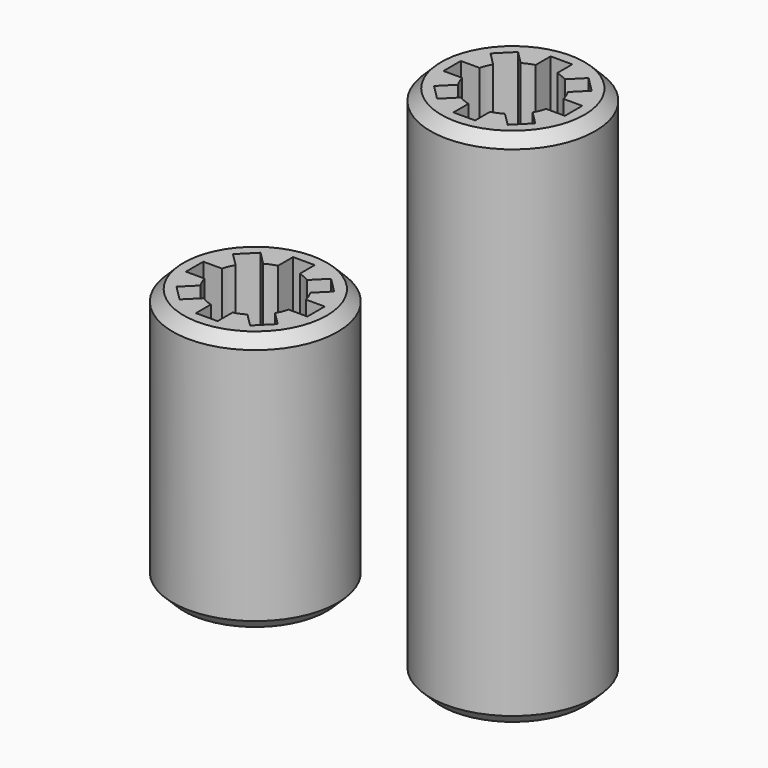
from build123d import *

# Parameters (mm, degrees)
F0_R      = 7.6
F1_DEPTH  = 48
F2_DEPTH  = 24
F3_SIZE   = 1
F3_2_SIZE = 1


with BuildPart() as f1:
    # F0 (on Top) → F1 (new body)
    with BuildSketch(Plane.XY):
        Circle(F0_R)
        with BuildLine():
            ThreePointArc((3.44572, 2.031506), (3.695518, 1.530734), (3.872983, 1))
            Line((3.872983, 1), (5.6, 1))
            Line((5.6, 1), (5.6, -1))
            Line((5.6, -1), (3.872983, -1))
            ThreePointArc((3.872983, -1), (3.695518, -1.530734), (3.44572, -2.031506))
            Line((3.44572, -2.031506), (4.666905, -3.252691))
            Line((4.666905, -3.252691), (3.252691, -4.666905))
            Line((3.252691, -4.666905), (2.031506, -3.44572))
            ThreePointArc((2.031506, -3.44572), (1.530734, -3.695518), (1, -3.872983))
            Line((1, -3.872983), (1, -5.6))
            Line((1, -5.6), (-1, -5.6))
            Line((-1, -5.6), (-1, -3.872983))
            ThreePointArc((-1, -3.872983), (-1.530734, -3.695518), (-2.031506, -3.44572))
            Line((-2.031506, -3.44572), (-3.252691, -4.666905))
            Line((-3.252691, -4.666905), (-4.666905, -3.252691))
            Line((-4.666905, -3.252691), (-3.44572, -2.031506))
            ThreePointArc((-3.44572, -2.031506), (-3.695518, -1.530734), (-3.872983, -1))
            Line((-3.872983, -1), (-5.6, -1))
            Line((-5.6, -1), (-5.6, 1))
            Line((-5.6, 1), (-3.872983, 1))
            ThreePointArc((-3.872983, 1), (-3.695518, 1.530734), (-3.44572, 2.031506))
            Line((-3.44572, 2.031506), (-4.666905, 3.252691))
            Line((-4.666905, 3.252691), (-3.252691, 4.666905))
            Line((-3.252691, 4.666905), (-2.031506, 3.44572))
            ThreePointArc((-2.031506, 3.44572), (-1.530734, 3.695518), (-1, 3.872983))
            Line((-1, 3.872983), (-1, 5.6))
            Line((-1, 5.6), (1, 5.6))
            Line((1, 5.6), (1, 3.872983))
            ThreePointArc((1, 3.872983), (1.530734, 3.695518), (2.031506, 3.44572))
            Line((2.031506, 3.44572), (3.252691, 4.666905))
            Line((3.252691, 4.666905), (4.666905, 3.252691))
            Line((4.666905, 3.252691), (3.44572, 2.031506))
        make_face(mode=Mode.SUBTRACT)
    extrude(amount=F1_DEPTH)

    # F3
    f3_edges = [f1.edges().sort_by_distance(p)[0] for p in [
        (-7.6, 0, 48),
        (-7.6, 0, 0),
    ]]
    chamfer(f3_edges, length=F3_SIZE)


with BuildPart() as f2:
    # F0 (on Top) → F2 (new body)
    with BuildSketch(Plane.XY):
        with Locations((-23.727447, -0.027975)):
            Circle(F0_R)
        with BuildLine():
            ThreePointArc((-20.281727, 2.003531), (-20.031929, 1.502759), (-19.854463, 0.972025))
            Line((-19.854463, 0.972025), (-18.127447, 0.972025))
            Line((-18.127447, 0.972025), (-18.127447, -1.027975))
            Line((-18.127447, -1.027975), (-19.854463, -1.027975))
            ThreePointArc((-19.854463, -1.027975), (-20.031929, -1.558709), (-20.281727, -2.059481))
            Line((-20.281727, -2.059481), (-19.060542, -3.280666))
            Line((-19.060542, -3.280666), (-20.474756, -4.69488))
            Line((-20.474756, -4.69488), (-21.695941, -3.473694))
            ThreePointArc((-21.695941, -3.473694), (-22.196713, -3.723493), (-22.727447, -3.900958))
            Line((-22.727447, -3.900958), (-22.727447, -5.627975))
            Line((-22.727447, -5.627975), (-24.727447, -5.627975))
            Line((-24.727447, -5.627975), (-24.727447, -3.900958))
            ThreePointArc((-24.727447, -3.900958), (-25.258181, -3.723493), (-25.758953, -3.473694))
            Line((-25.758953, -3.473694), (-26.980138, -4.69488))
            Line((-26.980138, -4.69488), (-28.394352, -3.280666))
            Line((-28.394352, -3.280666), (-27.173166, -2.059481))
            ThreePointArc((-27.173166, -2.059481), (-27.422965, -1.558709), (-27.60043, -1.027975))
            Line((-27.60043, -1.027975), (-29.327447, -1.027975))
            Line((-29.327447, -1.027975), (-29.327447, 0.972025))
            Line((-29.327447, 0.972025), (-27.60043, 0.972025))
            ThreePointArc((-27.60043, 0.972025), (-27.422965, 1.502759), (-27.173166, 2.003531))
            Line((-27.173166, 2.003531), (-28.394352, 3.224716))
            Line((-28.394352, 3.224716), (-26.980138, 4.63893))
            Line((-26.980138, 4.63893), (-25.758953, 3.417745))
            ThreePointArc((-25.758953, 3.417745), (-25.258181, 3.667543), (-24.727447, 3.845009))
            Line((-24.727447, 3.845009), (-24.727447, 5.572025))
            Line((-24.727447, 5.572025), (-22.727447, 5.572025))
            Line((-22.727447, 5.572025), (-22.727447, 3.845009))
            ThreePointArc((-22.727447, 3.845009), (-22.196713, 3.667543), (-21.695941, 3.417745))
            Line((-21.695941, 3.417745), (-20.474756, 4.63893))
            Line((-20.474756, 4.63893), (-19.060542, 3.224716))
            Line((-19.060542, 3.224716), (-20.281727, 2.003531))
        make_face(mode=Mode.SUBTRACT)
    extrude(amount=F2_DEPTH)

    # F3#2
    f3_2_edges = [f2.edges().sort_by_distance(p)[0] for p in [
        (-31.327447, -0.027975, 24),
        (-31.327447, -0.027975, 0),
    ]]
    chamfer(f3_2_edges, length=F3_2_SIZE)


solid = Compound([f1.part, f2.part])
